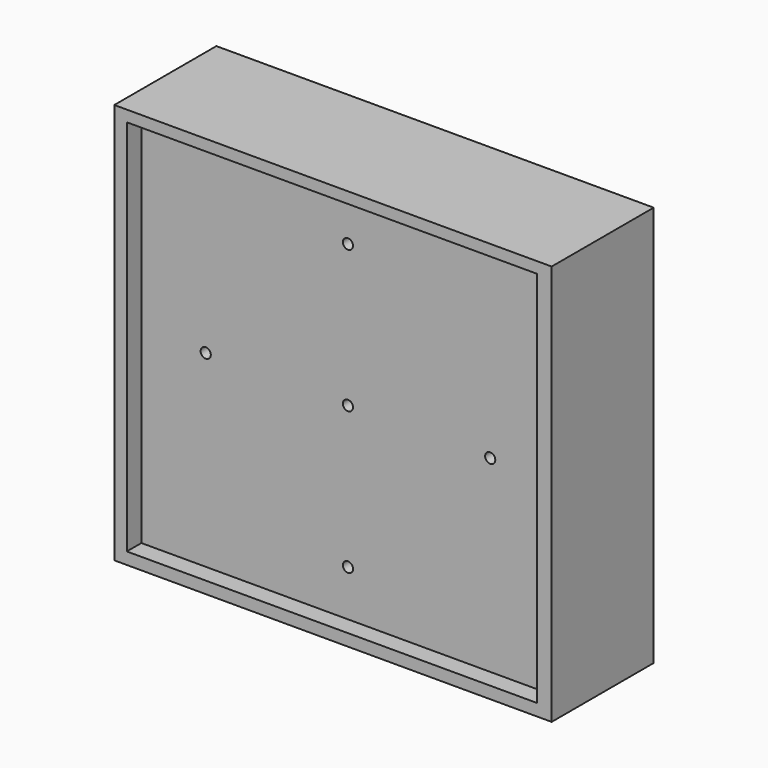
from build123d import *

# Parameters (mm, degrees)
F0_W     = 120
F0_H     = 110
F0_W_2   = 110
F0_H_2   = 100
F1_DEPTH = 25
F2_W     = 120
F2_H     = 110
F2_W_2   = 110
F2_H_2   = 100
F3_DEPTH = 5
F4_W     = 120
F4_H     = 110
F4_W_2   = 112.4888285995
F4_H_2   = 103.6703959107
F5_DEPTH = 5
F7_D     = 2.794


with BuildPart() as f1:
    # F0 (on Front) → F1 (new body)
    with BuildSketch(Plane.XZ):
        with Locations((-0.1109875739, 0.0762201769)):
            Rectangle(F0_W, F0_H)
        with Locations((-0.1109875739, -0.0193089247)):
            Rectangle(F0_W_2, F0_H_2, mode=Mode.SUBTRACT)
    extrude(amount=F1_DEPTH)

    # F2 (on face) → F3 (join)
    with BuildSketch(Plane.XZ.offset(25)):
        with Locations((-0.1109875739, 0.0762201769)):
            Rectangle(F2_W, F2_H)
        with Locations((-0.1109875739, -0.0193089247)):
            Rectangle(F2_W_2, F2_H_2, mode=Mode.SUBTRACT)
        with Locations((-0.1109875739, -0.0193089247)):
            Rectangle(F2_W_2, F2_H_2)
    extrude(amount=F3_DEPTH)

    # F4 (on face) → F5 (join)
    with BuildSketch(Plane.XZ.offset(30)):
        with Locations((-0.1109875739, 0.0762201769)):
            Rectangle(F4_W, F4_H)
        with Locations((-0.4336126149, 0.1837611198)):
            Rectangle(F4_W_2, F4_H_2, mode=Mode.SUBTRACT)
    extrude(amount=F5_DEPTH)

    # F7 (through all)
    with Locations(Plane.XZ.offset(30)):
        with Locations((0, 39.025651645), (-39.025651645, 0), (0, -39.025651645), (39.025651645, 0), (0, 0)):
            Hole(F7_D / 2)


solid = f1.part
